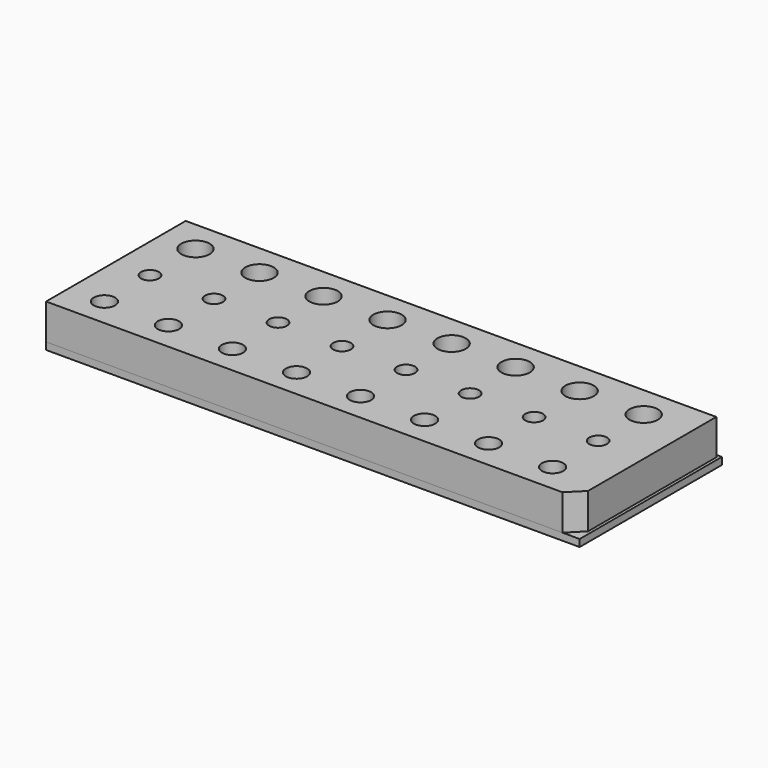
from build123d import *

# Parameters (mm, degrees)
F1_W      = 74.5822265744
F1_H      = 24.5319865644
F2_DEPTH  = 5
F3_R      = 1.5
F3_R_2    = 2
F3_R_3    = 1.25
F4_DEPTH  = 5
F5_SIZE   = 2
F6_W      = 75
F6_H      = 25
F7_DEPTH  = 1
F14_DEPTH = 0.12


with BuildPart() as f2:
    # F1 (on Top) → F2 (new body)
    with BuildSketch(Plane.XY):
        with Locations((37.2911132872, 12.2659932822)):
            Rectangle(F1_W, F1_H)
    extrude(amount=F2_DEPTH)

    # F3 (on Top) → F4 (cut, through all)
    with BuildSketch(Plane.XY):
        with Locations((5, 4)):
            Circle(F3_R)
        with Locations((5, 20)):
            Circle(F3_R_2)
        with Locations((5, 12)):
            Circle(F3_R_3)
        with Locations((14, 4)):
            Circle(F3_R)
        with Locations((14, 12)):
            Circle(F3_R_3)
        with Locations((14, 20)):
            Circle(F3_R_2)
        with Locations((23, 4)):
            Circle(F3_R)
        with Locations((23, 12)):
            Circle(F3_R_3)
        with Locations((23, 20)):
            Circle(F3_R_2)
        with Locations((32, 4)):
            Circle(F3_R)
        with Locations((32, 12)):
            Circle(F3_R_3)
        with Locations((32, 20)):
            Circle(F3_R_2)
        with Locations((41, 4)):
            Circle(F3_R)
        with Locations((41, 12)):
            Circle(F3_R_3)
        with Locations((41, 20)):
            Circle(F3_R_2)
        with Locations((50, 4)):
            Circle(F3_R)
        with Locations((50, 12)):
            Circle(F3_R_3)
        with Locations((50, 20)):
            Circle(F3_R_2)
        with Locations((59, 4)):
            Circle(F3_R)
        with Locations((59, 12)):
            Circle(F3_R_3)
        with Locations((59, 20)):
            Circle(F3_R_2)
        with Locations((68, 4)):
            Circle(F3_R)
        with Locations((68, 12)):
            Circle(F3_R_3)
        with Locations((68, 20)):
            Circle(F3_R_2)
    extrude(amount=F4_DEPTH, mode=Mode.SUBTRACT)

    # F5
    f5_edges = [f2.edges().sort_by_distance(p)[0] for p in [
        (74.582227, 0, 2.5),
    ]]
    chamfer(f5_edges, length=F5_SIZE)

    # F11 (on offset) → F12 (revolve)
    with BuildSketch(Plane.YZ.offset(5)):
        Polygon((20.9969494715, 0), (22.0062900335, 0), (22.0062900335, 0.7228035247), align=None)
    revolve(axis=Axis((5, 19.9969494715, 2.1875048988), (0, 0, -1)))

    # F13 (on Top) → F14 (cut)
    with BuildSketch(Plane.XY):
        with BuildLine():
            Line((7.7348116051, 16.1898133181), (5.1957091568, 16.1898133181))
            ThreePointArc((5.1957091568, 16.1898133181), (5.1213374763, 16.2169490584), (5.09, 16.2896502127))
            Line((5.09, 16.2896502127), (5.09, 20))
            Line((5.09, 20), (5, 20))
            Line((5, 20), (4.91, 20))
            Line((4.91, 20), (4.91, 16.2896502127))
            ThreePointArc((4.91, 16.2896502127), (4.8786625237, 16.2169490584), (4.8042908432, 16.1898133181))
            Line((4.8042908432, 16.1898133181), (2.2651883949, 16.1898133181))
            ThreePointArc((2.2651883949, 16.1898133181), (1.5264077352, 15.8637592631), (1.2693919351, 15.0982195917))
            Line((1.2693919351, 15.0982195917), (1.9182892294, 8.0434828297))
            ThreePointArc((1.9182892294, 8.0434828297), (2.2401397441, 7.3962958964), (2.9140856892, 7.1350765561))
            Line((2.9140856892, 7.1350765561), (4.75, 7.1350765561))
            Line((4.75, 7.1350765561), (4.75, 4))
            Line((4.75, 4), (5, 4))
            Line((5, 4), (5.25, 4))
            Line((5.25, 4), (5.25, 7.1350765561))
            Line((5.25, 7.1350765561), (7.0859143108, 7.1350765561))
            ThreePointArc((7.0859143108, 7.1350765561), (7.7598602559, 7.3962958964), (8.0817107706, 8.0434828297))
            Line((8.0817107706, 8.0434828297), (8.7306080649, 15.0982195917))
            ThreePointArc((8.7306080649, 15.0982195917), (8.4735922648, 15.8637592631), (7.7348116051, 16.1898133181))
        make_face()
        with BuildLine():
            Line((5.025, 12), (5.025, 16.0898133181))
            Line((5.025, 16.0898133181), (7.5247693112, 16.0898133181))
            ThreePointArc((7.5247693112, 16.0898133181), (8.2635499709, 15.7637592631), (8.520565771, 14.9982195917))
            Line((8.520565771, 14.9982195917), (7.9176586615, 8.4434828297))
            ThreePointArc((7.9176586615, 8.4434828297), (7.5958081468, 7.7962958964), (6.9218622017, 7.5350765561))
            Line((6.9218622017, 7.5350765561), (5, 7.5350765561))
            Line((5, 7.5350765561), (3.0781377983, 7.5350765561))
            ThreePointArc((3.0781377983, 7.5350765561), (2.4041918532, 7.7962958964), (2.0823413385, 8.4434828297))
            Line((2.0823413385, 8.4434828297), (1.479434229, 14.9982195917))
            ThreePointArc((1.479434229, 14.9982195917), (1.7364500291, 15.7637592631), (2.4752306888, 16.0898133181))
            Line((2.4752306888, 16.0898133181), (4.975, 16.0898133181))
            Line((4.975, 16.0898133181), (4.975, 12))
            Line((4.975, 12), (5, 12))
            Line((5, 12), (5.025, 12))
        make_face(mode=Mode.SUBTRACT)
        with BuildLine():
            ThreePointArc((14.1957091568, 16.1898133181), (14.1213374763, 16.2169490584), (14.09, 16.2896502127))
            Line((14.09, 16.2896502127), (14.09, 20))
            Line((14.09, 20), (14, 20))
            Line((14, 20), (13.91, 20))
            Line((13.91, 20), (13.91, 16.2896502127))
            ThreePointArc((13.91, 16.2896502127), (13.8786625237, 16.2169490584), (13.8042908432, 16.1898133181))
            Line((13.8042908432, 16.1898133181), (11.2651883949, 16.1898133181))
            ThreePointArc((11.2651883949, 16.1898133181), (10.5264077352, 15.8637592631), (10.2693919351, 15.0982195917))
            Line((10.2693919351, 15.0982195917), (10.9182892294, 8.0434828297))
            ThreePointArc((10.9182892294, 8.0434828297), (11.2401397441, 7.3962958964), (11.9140856892, 7.1350765561))
            Line((11.9140856892, 7.1350765561), (13.75, 7.1350765561))
            Line((13.75, 7.1350765561), (13.75, 4))
            Line((13.75, 4), (14, 4))
            Line((14, 4), (14.25, 4))
            Line((14.25, 4), (14.25, 7.1350765561))
            Line((14.25, 7.1350765561), (16.0859143108, 7.1350765561))
            ThreePointArc((16.0859143108, 7.1350765561), (16.7598602559, 7.3962958964), (17.0817107706, 8.0434828297))
            Line((17.0817107706, 8.0434828297), (17.7306080649, 15.0982195917))
            ThreePointArc((17.7306080649, 15.0982195917), (17.4735922648, 15.8637592631), (16.7348116051, 16.1898133181))
            Line((16.7348116051, 16.1898133181), (14.1957091568, 16.1898133181))
        make_face()
        with BuildLine():
            Line((15.9218622017, 7.5350765561), (14, 7.5350765561))
            Line((14, 7.5350765561), (12.0781377983, 7.5350765561))
            ThreePointArc((12.0781377983, 7.5350765561), (11.4041918532, 7.7962958964), (11.0823413385, 8.4434828297))
            Line((11.0823413385, 8.4434828297), (10.479434229, 14.9982195917))
            ThreePointArc((10.479434229, 14.9982195917), (10.7364500291, 15.7637592631), (11.4752306888, 16.0898133181))
            Line((11.4752306888, 16.0898133181), (13.975, 16.0898133181))
            Line((13.975, 16.0898133181), (13.975, 12))
            Line((13.975, 12), (14, 12))
            Line((14, 12), (14.025, 12))
            Line((14.025, 12), (14.025, 16.0898133181))
            Line((14.025, 16.0898133181), (16.5247693112, 16.0898133181))
            ThreePointArc((16.5247693112, 16.0898133181), (17.2635499709, 15.7637592631), (17.520565771, 14.9982195917))
            Line((17.520565771, 14.9982195917), (16.9176586615, 8.4434828297))
            ThreePointArc((16.9176586615, 8.4434828297), (16.5958081468, 7.7962958964), (15.9218622017, 7.5350765561))
        make_face(mode=Mode.SUBTRACT)
        with BuildLine():
            ThreePointArc((23.1957091568, 16.1898133181), (23.1213374763, 16.2169490584), (23.09, 16.2896502127))
            Line((23.09, 16.2896502127), (23.09, 20))
            Line((23.09, 20), (23, 20))
            Line((23, 20), (22.91, 20))
            Line((22.91, 20), (22.91, 16.2896502127))
            ThreePointArc((22.91, 16.2896502127), (22.8786625237, 16.2169490584), (22.8042908432, 16.1898133181))
            Line((22.8042908432, 16.1898133181), (20.2651883949, 16.1898133181))
            ThreePointArc((20.2651883949, 16.1898133181), (19.5264077352, 15.8637592631), (19.2693919351, 15.0982195917))
            Line((19.2693919351, 15.0982195917), (19.9182892294, 8.0434828297))
            ThreePointArc((19.9182892294, 8.0434828297), (20.2401397441, 7.3962958964), (20.9140856892, 7.1350765561))
            Line((20.9140856892, 7.1350765561), (22.75, 7.1350765561))
            Line((22.75, 7.1350765561), (22.75, 4))
            Line((22.75, 4), (23, 4))
            Line((23, 4), (23.25, 4))
            Line((23.25, 4), (23.25, 7.1350765561))
            Line((23.25, 7.1350765561), (25.0859143108, 7.1350765561))
            ThreePointArc((25.0859143108, 7.1350765561), (25.7598602559, 7.3962958964), (26.0817107706, 8.0434828297))
            Line((26.0817107706, 8.0434828297), (26.7306080649, 15.0982195917))
            ThreePointArc((26.7306080649, 15.0982195917), (26.4735922648, 15.8637592631), (25.7348116051, 16.1898133181))
            Line((25.7348116051, 16.1898133181), (23.1957091568, 16.1898133181))
        make_face()
        with BuildLine():
            Line((24.9218622017, 7.5350765561), (23, 7.5350765561))
            Line((23, 7.5350765561), (21.0781377983, 7.5350765561))
            ThreePointArc((21.0781377983, 7.5350765561), (20.4041918532, 7.7962958964), (20.0823413385, 8.4434828297))
            Line((20.0823413385, 8.4434828297), (19.479434229, 14.9982195917))
            ThreePointArc((19.479434229, 14.9982195917), (19.7364500291, 15.7637592631), (20.4752306888, 16.0898133181))
            Line((20.4752306888, 16.0898133181), (22.975, 16.0898133181))
            Line((22.975, 16.0898133181), (22.975, 12))
            Line((22.975, 12), (23, 12))
            Line((23, 12), (23.025, 12))
            Line((23.025, 12), (23.025, 16.0898133181))
            Line((23.025, 16.0898133181), (25.5247693112, 16.0898133181))
            ThreePointArc((25.5247693112, 16.0898133181), (26.2635499709, 15.7637592631), (26.520565771, 14.9982195917))
            Line((26.520565771, 14.9982195917), (25.9176586615, 8.4434828297))
            ThreePointArc((25.9176586615, 8.4434828297), (25.5958081468, 7.7962958964), (24.9218622017, 7.5350765561))
        make_face(mode=Mode.SUBTRACT)
        with BuildLine():
            ThreePointArc((32.1957091568, 16.1898133181), (32.1213374763, 16.2169490584), (32.09, 16.2896502127))
            Line((32.09, 16.2896502127), (32.09, 20))
            Line((32.09, 20), (32, 20))
            Line((32, 20), (31.91, 20))
            Line((31.91, 20), (31.91, 16.2896502127))
            ThreePointArc((31.91, 16.2896502127), (31.8786625237, 16.2169490584), (31.8042908432, 16.1898133181))
            Line((31.8042908432, 16.1898133181), (29.2651883949, 16.1898133181))
            ThreePointArc((29.2651883949, 16.1898133181), (28.5264077352, 15.8637592631), (28.2693919351, 15.0982195917))
            Line((28.2693919351, 15.0982195917), (28.9182892294, 8.0434828297))
            ThreePointArc((28.9182892294, 8.0434828297), (29.2401397441, 7.3962958964), (29.9140856892, 7.1350765561))
            Line((29.9140856892, 7.1350765561), (31.75, 7.1350765561))
            Line((31.75, 7.1350765561), (31.75, 4))
            Line((31.75, 4), (32, 4))
            Line((32, 4), (32.25, 4))
            Line((32.25, 4), (32.25, 7.1350765561))
            Line((32.25, 7.1350765561), (34.0859143108, 7.1350765561))
            ThreePointArc((34.0859143108, 7.1350765561), (34.7598602559, 7.3962958964), (35.0817107706, 8.0434828297))
            Line((35.0817107706, 8.0434828297), (35.7306080649, 15.0982195917))
            ThreePointArc((35.7306080649, 15.0982195917), (35.4735922648, 15.8637592631), (34.7348116051, 16.1898133181))
            Line((34.7348116051, 16.1898133181), (32.1957091568, 16.1898133181))
        make_face()
        with BuildLine():
            Line((33.9218622017, 7.5350765561), (32, 7.5350765561))
            Line((32, 7.5350765561), (30.0781377983, 7.5350765561))
            ThreePointArc((30.0781377983, 7.5350765561), (29.4041918532, 7.7962958964), (29.0823413385, 8.4434828297))
            Line((29.0823413385, 8.4434828297), (28.479434229, 14.9982195917))
            ThreePointArc((28.479434229, 14.9982195917), (28.7364500291, 15.7637592631), (29.4752306888, 16.0898133181))
            Line((29.4752306888, 16.0898133181), (31.975, 16.0898133181))
            Line((31.975, 16.0898133181), (31.975, 12))
            Line((31.975, 12), (32, 12))
            Line((32, 12), (32.025, 12))
            Line((32.025, 12), (32.025, 16.0898133181))
            Line((32.025, 16.0898133181), (34.5247693112, 16.0898133181))
            ThreePointArc((34.5247693112, 16.0898133181), (35.2635499709, 15.7637592631), (35.520565771, 14.9982195917))
            Line((35.520565771, 14.9982195917), (34.9176586615, 8.4434828297))
            ThreePointArc((34.9176586615, 8.4434828297), (34.5958081468, 7.7962958964), (33.9218622017, 7.5350765561))
        make_face(mode=Mode.SUBTRACT)
        with BuildLine():
            ThreePointArc((41.1957091568, 16.1898133181), (41.1213374763, 16.2169490584), (41.09, 16.2896502127))
            Line((41.09, 16.2896502127), (41.09, 20))
            Line((41.09, 20), (41, 20))
            Line((41, 20), (40.91, 20))
            Line((40.91, 20), (40.91, 16.2896502127))
            ThreePointArc((40.91, 16.2896502127), (40.8786625237, 16.2169490584), (40.8042908432, 16.1898133181))
            Line((40.8042908432, 16.1898133181), (38.2651883949, 16.1898133181))
            ThreePointArc((38.2651883949, 16.1898133181), (37.5264077352, 15.8637592631), (37.2693919351, 15.0982195917))
            Line((37.2693919351, 15.0982195917), (37.9182892294, 8.0434828297))
            ThreePointArc((37.9182892294, 8.0434828297), (38.2401397441, 7.3962958964), (38.9140856892, 7.1350765561))
            Line((38.9140856892, 7.1350765561), (40.75, 7.1350765561))
            Line((40.75, 7.1350765561), (40.75, 4))
            Line((40.75, 4), (41, 4))
            Line((41, 4), (41.25, 4))
            Line((41.25, 4), (41.25, 7.1350765561))
            Line((41.25, 7.1350765561), (43.0859143108, 7.1350765561))
            ThreePointArc((43.0859143108, 7.1350765561), (43.7598602559, 7.3962958964), (44.0817107706, 8.0434828297))
            Line((44.0817107706, 8.0434828297), (44.7306080649, 15.0982195917))
            ThreePointArc((44.7306080649, 15.0982195917), (44.4735922648, 15.8637592631), (43.7348116051, 16.1898133181))
            Line((43.7348116051, 16.1898133181), (41.1957091568, 16.1898133181))
        make_face()
        with BuildLine():
            Line((42.9218622017, 7.5350765561), (41, 7.5350765561))
            Line((41, 7.5350765561), (39.0781377983, 7.5350765561))
            ThreePointArc((39.0781377983, 7.5350765561), (38.4041918532, 7.7962958964), (38.0823413385, 8.4434828297))
            Line((38.0823413385, 8.4434828297), (37.479434229, 14.9982195917))
            ThreePointArc((37.479434229, 14.9982195917), (37.7364500291, 15.7637592631), (38.4752306888, 16.0898133181))
            Line((38.4752306888, 16.0898133181), (40.975, 16.0898133181))
            Line((40.975, 16.0898133181), (40.975, 12))
            Line((40.975, 12), (41, 12))
            Line((41, 12), (41.025, 12))
            Line((41.025, 12), (41.025, 16.0898133181))
            Line((41.025, 16.0898133181), (43.5247693112, 16.0898133181))
            ThreePointArc((43.5247693112, 16.0898133181), (44.2635499709, 15.7637592631), (44.520565771, 14.9982195917))
            Line((44.520565771, 14.9982195917), (43.9176586615, 8.4434828297))
            ThreePointArc((43.9176586615, 8.4434828297), (43.5958081468, 7.7962958964), (42.9218622017, 7.5350765561))
        make_face(mode=Mode.SUBTRACT)
        with BuildLine():
            ThreePointArc((50.1957091568, 16.1898133181), (50.1213374763, 16.2169490584), (50.09, 16.2896502127))
            Line((50.09, 16.2896502127), (50.09, 20))
            Line((50.09, 20), (50, 20))
            Line((50, 20), (49.91, 20))
            Line((49.91, 20), (49.91, 16.2896502127))
            ThreePointArc((49.91, 16.2896502127), (49.8786625237, 16.2169490584), (49.8042908432, 16.1898133181))
            Line((49.8042908432, 16.1898133181), (47.2651883949, 16.1898133181))
            ThreePointArc((47.2651883949, 16.1898133181), (46.5264077352, 15.8637592631), (46.2693919351, 15.0982195917))
            Line((46.2693919351, 15.0982195917), (46.9182892294, 8.0434828297))
            ThreePointArc((46.9182892294, 8.0434828297), (47.2401397441, 7.3962958964), (47.9140856892, 7.1350765561))
            Line((47.9140856892, 7.1350765561), (49.75, 7.1350765561))
            Line((49.75, 7.1350765561), (49.75, 4))
            Line((49.75, 4), (50, 4))
            Line((50, 4), (50.25, 4))
            Line((50.25, 4), (50.25, 7.1350765561))
            Line((50.25, 7.1350765561), (52.0859143108, 7.1350765561))
            ThreePointArc((52.0859143108, 7.1350765561), (52.7598602559, 7.3962958964), (53.0817107706, 8.0434828297))
            Line((53.0817107706, 8.0434828297), (53.7306080649, 15.0982195917))
            ThreePointArc((53.7306080649, 15.0982195917), (53.4735922648, 15.8637592631), (52.7348116051, 16.1898133181))
            Line((52.7348116051, 16.1898133181), (50.1957091568, 16.1898133181))
        make_face()
        with BuildLine():
            Line((51.9218622017, 7.5350765561), (50, 7.5350765561))
            Line((50, 7.5350765561), (48.0781377983, 7.5350765561))
            ThreePointArc((48.0781377983, 7.5350765561), (47.4041918532, 7.7962958964), (47.0823413385, 8.4434828297))
            Line((47.0823413385, 8.4434828297), (46.479434229, 14.9982195917))
            ThreePointArc((46.479434229, 14.9982195917), (46.7364500291, 15.7637592631), (47.4752306888, 16.0898133181))
            Line((47.4752306888, 16.0898133181), (49.975, 16.0898133181))
            Line((49.975, 16.0898133181), (49.975, 12))
            Line((49.975, 12), (50, 12))
            Line((50, 12), (50.025, 12))
            Line((50.025, 12), (50.025, 16.0898133181))
            Line((50.025, 16.0898133181), (52.5247693112, 16.0898133181))
            ThreePointArc((52.5247693112, 16.0898133181), (53.2635499709, 15.7637592631), (53.520565771, 14.9982195917))
            Line((53.520565771, 14.9982195917), (52.9176586615, 8.4434828297))
            ThreePointArc((52.9176586615, 8.4434828297), (52.5958081468, 7.7962958964), (51.9218622017, 7.5350765561))
        make_face(mode=Mode.SUBTRACT)
        with BuildLine():
            ThreePointArc((59.1957091568, 16.1898133181), (59.1213374763, 16.2169490584), (59.09, 16.2896502127))
            Line((59.09, 16.2896502127), (59.09, 20))
            Line((59.09, 20), (59, 20))
            Line((59, 20), (58.91, 20))
            Line((58.91, 20), (58.91, 16.2896502127))
            ThreePointArc((58.91, 16.2896502127), (58.8786625237, 16.2169490584), (58.8042908432, 16.1898133181))
            Line((58.8042908432, 16.1898133181), (56.2651883949, 16.1898133181))
            ThreePointArc((56.2651883949, 16.1898133181), (55.5264077352, 15.8637592631), (55.2693919351, 15.0982195917))
            Line((55.2693919351, 15.0982195917), (55.9182892294, 8.0434828297))
            ThreePointArc((55.9182892294, 8.0434828297), (56.2401397441, 7.3962958964), (56.9140856892, 7.1350765561))
            Line((56.9140856892, 7.1350765561), (58.75, 7.1350765561))
            Line((58.75, 7.1350765561), (58.75, 4))
            Line((58.75, 4), (59, 4))
            Line((59, 4), (59.25, 4))
            Line((59.25, 4), (59.25, 7.1350765561))
            Line((59.25, 7.1350765561), (61.0859143108, 7.1350765561))
            ThreePointArc((61.0859143108, 7.1350765561), (61.7598602559, 7.3962958964), (62.0817107706, 8.0434828297))
            Line((62.0817107706, 8.0434828297), (62.7306080649, 15.0982195917))
            ThreePointArc((62.7306080649, 15.0982195917), (62.4735922648, 15.8637592631), (61.7348116051, 16.1898133181))
            Line((61.7348116051, 16.1898133181), (59.1957091568, 16.1898133181))
        make_face()
        with BuildLine():
            Line((60.9218622017, 7.5350765561), (59, 7.5350765561))
            Line((59, 7.5350765561), (57.0781377983, 7.5350765561))
            ThreePointArc((57.0781377983, 7.5350765561), (56.4041918532, 7.7962958964), (56.0823413385, 8.4434828297))
            Line((56.0823413385, 8.4434828297), (55.479434229, 14.9982195917))
            ThreePointArc((55.479434229, 14.9982195917), (55.7364500291, 15.7637592631), (56.4752306888, 16.0898133181))
            Line((56.4752306888, 16.0898133181), (58.975, 16.0898133181))
            Line((58.975, 16.0898133181), (58.975, 12))
            Line((58.975, 12), (59, 12))
            Line((59, 12), (59.025, 12))
            Line((59.025, 12), (59.025, 16.0898133181))
            Line((59.025, 16.0898133181), (61.5247693112, 16.0898133181))
            ThreePointArc((61.5247693112, 16.0898133181), (62.2635499709, 15.7637592631), (62.520565771, 14.9982195917))
            Line((62.520565771, 14.9982195917), (61.9176586615, 8.4434828297))
            ThreePointArc((61.9176586615, 8.4434828297), (61.5958081468, 7.7962958964), (60.9218622017, 7.5350765561))
        make_face(mode=Mode.SUBTRACT)
        with BuildLine():
            ThreePointArc((68.1957091568, 16.1898133181), (68.1213374763, 16.2169490584), (68.09, 16.2896502127))
            Line((68.09, 16.2896502127), (68.09, 20))
            Line((68.09, 20), (68, 20))
            Line((68, 20), (67.91, 20))
            Line((67.91, 20), (67.91, 16.2896502127))
            ThreePointArc((67.91, 16.2896502127), (67.8786625237, 16.2169490584), (67.8042908432, 16.1898133181))
            Line((67.8042908432, 16.1898133181), (65.2651883949, 16.1898133181))
            ThreePointArc((65.2651883949, 16.1898133181), (64.5264077352, 15.8637592631), (64.2693919351, 15.0982195917))
            Line((64.2693919351, 15.0982195917), (64.9182892294, 8.0434828297))
            ThreePointArc((64.9182892294, 8.0434828297), (65.2401397441, 7.3962958964), (65.9140856892, 7.1350765561))
            Line((65.9140856892, 7.1350765561), (67.75, 7.1350765561))
            Line((67.75, 7.1350765561), (67.75, 4))
            Line((67.75, 4), (68, 4))
            Line((68, 4), (68.25, 4))
            Line((68.25, 4), (68.25, 7.1350765561))
            Line((68.25, 7.1350765561), (70.0859143108, 7.1350765561))
            ThreePointArc((70.0859143108, 7.1350765561), (70.7598602559, 7.3962958964), (71.0817107706, 8.0434828297))
            Line((71.0817107706, 8.0434828297), (71.7306080649, 15.0982195917))
            ThreePointArc((71.7306080649, 15.0982195917), (71.4735922648, 15.8637592631), (70.7348116051, 16.1898133181))
            Line((70.7348116051, 16.1898133181), (68.1957091568, 16.1898133181))
        make_face()
        with BuildLine():
            Line((69.9218622017, 7.5350765561), (68, 7.5350765561))
            Line((68, 7.5350765561), (66.0781377983, 7.5350765561))
            ThreePointArc((66.0781377983, 7.5350765561), (65.4041918532, 7.7962958964), (65.0823413385, 8.4434828297))
            Line((65.0823413385, 8.4434828297), (64.479434229, 14.9982195917))
            ThreePointArc((64.479434229, 14.9982195917), (64.7364500291, 15.7637592631), (65.4752306888, 16.0898133181))
            Line((65.4752306888, 16.0898133181), (67.975, 16.0898133181))
            Line((67.975, 16.0898133181), (67.975, 12))
            Line((67.975, 12), (68, 12))
            Line((68, 12), (68.025, 12))
            Line((68.025, 12), (68.025, 16.0898133181))
            Line((68.025, 16.0898133181), (70.5247693112, 16.0898133181))
            ThreePointArc((70.5247693112, 16.0898133181), (71.2635499709, 15.7637592631), (71.520565771, 14.9982195917))
            Line((71.520565771, 14.9982195917), (70.9176586615, 8.4434828297))
            ThreePointArc((70.9176586615, 8.4434828297), (70.5958081468, 7.7962958964), (69.9218622017, 7.5350765561))
        make_face(mode=Mode.SUBTRACT)
    extrude(amount=F14_DEPTH, mode=Mode.SUBTRACT)


with BuildPart() as f7:
    # F6 (on Top) → F7 (new body)
    with BuildSketch(Plane.XY):
        with Locations((37.5, 12.5)):
            Rectangle(F6_W, F6_H)
    extrude(amount=-F7_DEPTH)


solid = Compound([f2.part, f7.part])
